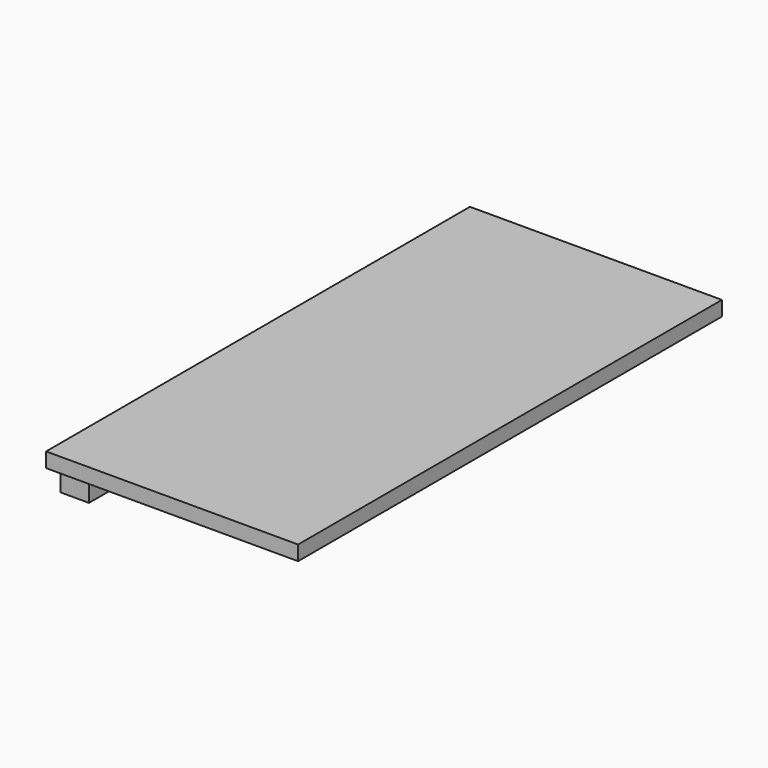
from build123d import *

# Parameters (mm, degrees)
SKETCH_W     = 34.25
SKETCH_H     = 72
PAD_DEPTH    = 2
SKETCH001_W  = 3.9
SKETCH001_H  = 69.8
PAD001_DEPTH = 3


with BuildPart() as part:
    # Sketch → Pad (new body)
    with BuildSketch(Plane.XY):
        Rectangle(SKETCH_W, SKETCH_H)
    extrude(amount=PAD_DEPTH)

    # Sketch001 → Pad001 (join)
    with BuildSketch(Plane.XY):
        with Locations((-14.125, 0)):
            Rectangle(SKETCH001_W, SKETCH001_H)
    extrude(amount=-PAD001_DEPTH)


solid = part.part
